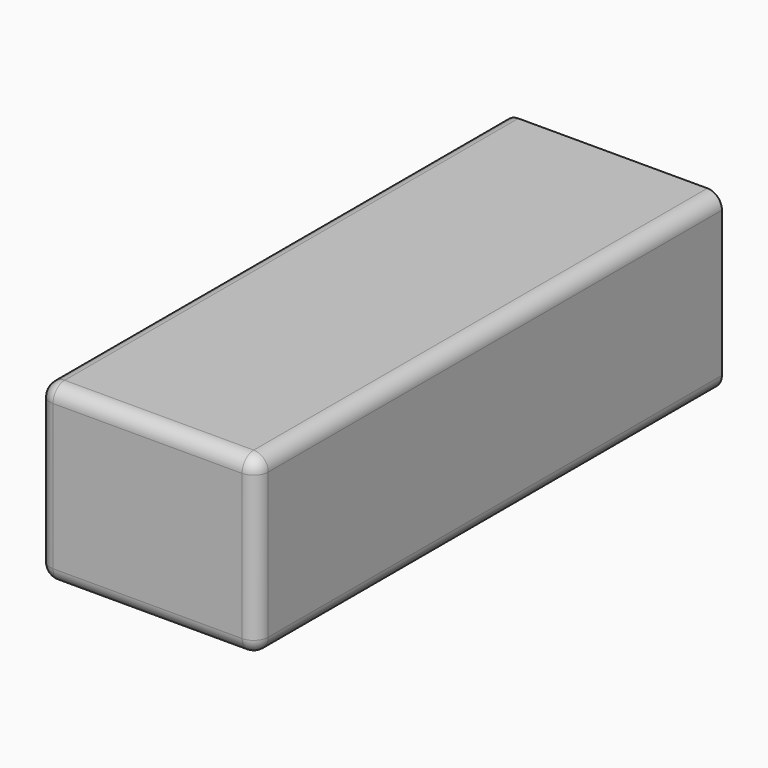
from build123d import *

# Parameters (mm, degrees)
FACE001_W        = 15
FACE001_H        = 12
EXTRUDE001_DEPTH = 8
FILLET001_R      = 1
SKETCH_W         = 15
SKETCH_H         = 12
EXTRUDE_DEPTH    = 32
FILLET_R         = 1


with BuildPart() as fillet001:
    # Face001 → Extrude001 (new body)
    with BuildSketch(Plane(origin=(7.5, -32, 6), x_dir=(1, 0, 0), z_dir=(0, 1, 0))):
        Rectangle(FACE001_W, FACE001_H)
    extrude(amount=EXTRUDE001_DEPTH)


with BuildPart() as fillet001_1:
    # Extrude001 placement: moved
    add(fillet001.part.moved(Location((0, -8, 0))))

    # Fillet001
    fillet001_edges = [fillet001_1.edges().sort_by_distance(p)[0] for p in [
        (15, -36, 12),
        (0, -36, 12),
        (7.5, -40, 12),
        (0, -36, 0),
        (0, -40, 6),
        (15, -36, 0),
        (7.5, -40, 0),
        (15, -40, 6),
    ]]
    fillet(fillet001_edges, radius=FILLET001_R)


with BuildPart() as fusion:
    # Sketch → Extrude (new body)
    with BuildSketch(Plane.XZ):
        with Locations((7.5, 6)):
            Rectangle(SKETCH_W, SKETCH_H)
        Polygon((1.775, 10), (13.225, 10), (13.225, 3.8), (11.5, 3.8), (11.5, 2.75), (3.5, 2.75), (3.5, 3.8), (1.775, 3.8), align=None, mode=Mode.SUBTRACT)
    extrude(amount=EXTRUDE_DEPTH)

    # Fillet
    fillet_edges = [fusion.edges().sort_by_distance(p)[0] for p in [
        (0, -16, 0),
        (15, -16, 0),
        (15, -16, 12),
        (0, -16, 12),
    ]]
    fillet(fillet_edges, radius=FILLET_R)

    # Fusion: union Fillet001
    add(fillet001_1.part)


solid = fusion.part
